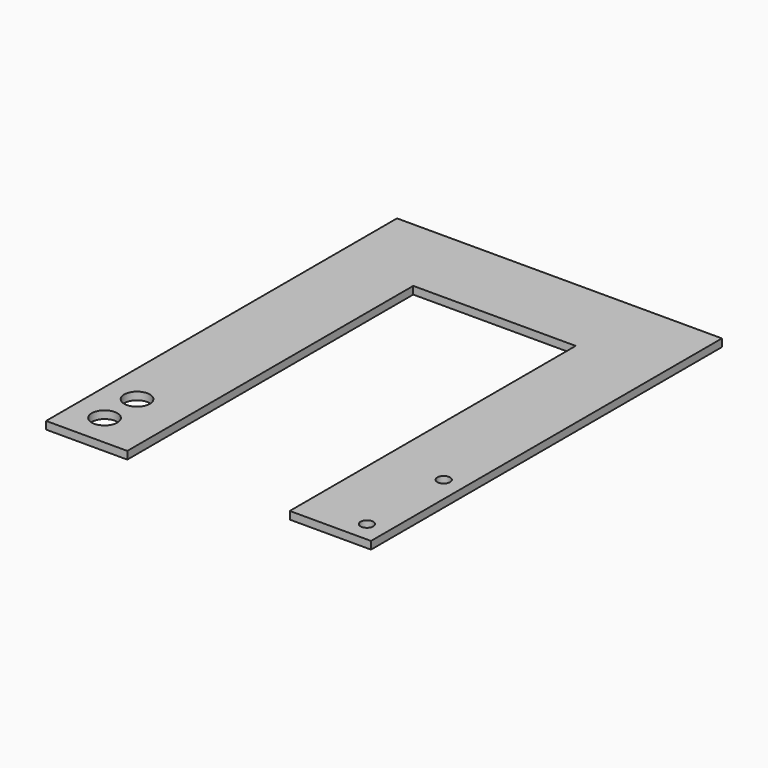
from build123d import *

# Parameters (mm, degrees)
F0_R     = 2
F0_R_2   = 1
F1_DEPTH = 1.2


with BuildPart() as f1:
    # F0 (on Top) → F1 (new body)
    with BuildSketch(Plane.XY):
        Polygon((-41.936022, 88.209298), (-54.636022, 88.209298), (-54.636022, 19.629298), (-41.936022, 19.629298), (-41.936022, 75.509298), (-16.536022, 75.509298), (-16.536022, 19.629298), (-3.836022, 19.629298), (-3.836022, 88.209298), (-16.536022, 88.209298), align=None)
        with Locations((-49.556022, 24.709298)):
            Circle(F0_R, mode=Mode.SUBTRACT)
        with Locations((-49.556022, 31.059298)):
            Circle(F0_R, mode=Mode.SUBTRACT)
        with Locations((-7.011022, 22.804298)):
            Circle(F0_R_2, mode=Mode.SUBTRACT)
        with Locations((-7.011022, 37.804298)):
            Circle(F0_R_2, mode=Mode.SUBTRACT)
    extrude(amount=F1_DEPTH)


solid = f1.part
